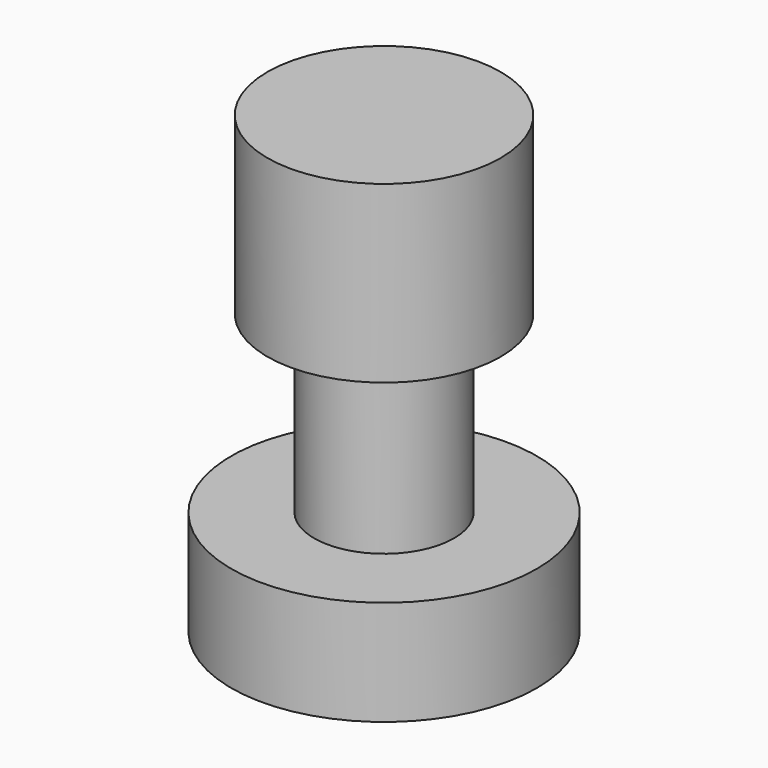
from build123d import *

# Parameters (mm, degrees)
CYLINDER003_R     = 10
CYLINDER003_DEPTH = 15
CYLINDER002_R     = 6
CYLINDER002_DEPTH = 15
CYLINDER004_R     = 13.1
CYLINDER004_DEPTH = 9


with BuildPart() as top_bearing_cut:
    # Cylinder003 → Cylinder003 (new body)
    with BuildSketch(Plane(origin=(21.15, 44.52, 49.5), x_dir=(1, 0, 0), z_dir=(0, 0, 1))):
        Circle(CYLINDER003_R)
    extrude(amount=CYLINDER003_DEPTH)


with BuildPart() as screw_cut:
    # Cylinder002 → Cylinder002 (new body)
    with BuildSketch(Plane(origin=(21.15, 44.52, 34.5), x_dir=(1, 0, 0), z_dir=(0, 0, 1))):
        Circle(CYLINDER002_R)
    extrude(amount=CYLINDER002_DEPTH)


with BuildPart() as fusion008:
    # Cylinder004 → Cylinder004 (new body)
    with BuildSketch(Plane(origin=(21.15, 44.52, 25.5), x_dir=(1, 0, 0), z_dir=(0, 0, 1))):
        Circle(CYLINDER004_R)
    extrude(amount=CYLINDER004_DEPTH)

    # Fusion008: union top-bearing-cut, screw-cut
    add(top_bearing_cut.part)
    add(screw_cut.part)


solid = fusion008.part
